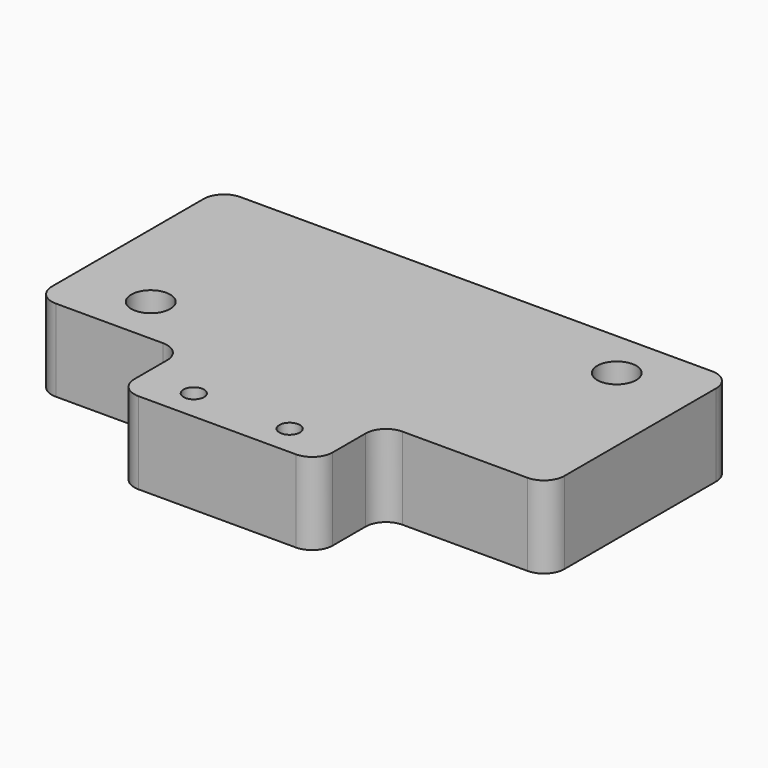
from build123d import *

# Parameters (mm, degrees)
F0_R     = 1.9
F0_W     = 19.35
F0_H     = 8
F0_R_2   = 1
F1_DEPTH = 8
F2_R     = 2


with BuildPart() as f1:
    # F0 (on Top) → F1 (new body)
    with BuildSketch(Plane.XY):
        Polygon((50, 22.5), (0, 22.5), (0, 0), (14.45, 0), (33.8, 0), (50, 0), align=None)
        with Locations((7.45, 4.75)):
            Circle(F0_R, mode=Mode.SUBTRACT)
        with Locations((42.5, 17.75)):
            Circle(F0_R, mode=Mode.SUBTRACT)
        with Locations((24.125, -4)):
            Rectangle(F0_W, F0_H)
        with Locations((19.45, -5)):
            Circle(F0_R_2, mode=Mode.SUBTRACT)
        with Locations((28.8, -5)):
            Circle(F0_R_2, mode=Mode.SUBTRACT)
    extrude(amount=F1_DEPTH)

    # F2
    f2_edges = [f1.edges().sort_by_distance(p)[0] for p in [
        (14.45, 0, 4),
        (14.45, -8, 4),
        (33.8, -8, 4),
        (33.8, 0, 4),
        (50, 0, 4),
        (50, 22.5, 4),
        (0, 0, 4),
        (0, 22.5, 4),
    ]]
    fillet(f2_edges, radius=F2_R)


solid = f1.part
